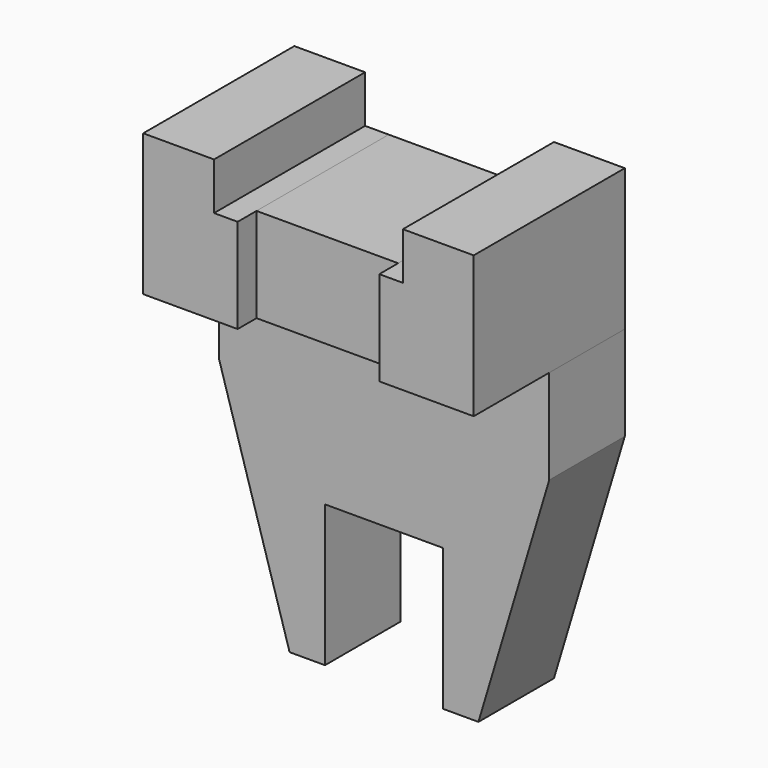
from build123d import *

# Parameters (mm, degrees)
F0_W     = 3.81
F0_H     = 2.54
F1_DEPTH = 10.16
F2_DEPTH = 8.89
F3_DEPTH = 5.08


with BuildPart() as f1:
    # F0 (on Front) → F1 (new body)
    with BuildSketch(Plane.XZ):
        with Locations((-25.8821314108, 11.8955207688)):
            Rectangle(F0_W, F0_H)
        Polygon((-27.7871314108, 5.5455207688), (-22.7071314108, 5.5455207688), (-22.7071314108, 10.6255207688), (-23.9771314108, 10.6255207688), (-27.7871314108, 10.6255207688), align=None)
    extrude(amount=F1_DEPTH)


with BuildPart() as f1b:
    # F0 (on Front) → F1, piece 2 (new body)
    with BuildSketch(Plane.XZ):
        with Locations((-11.9121314108, 11.8955207688)):
            Rectangle(F0_W, F0_H)
        Polygon((-10.0071314108, 5.5455207688), (-10.0071314108, 10.6255207688), (-13.8171314108, 10.6255207688), (-15.0871314108, 10.6255207688), (-15.0871314108, 5.5455207688), align=None)
    extrude(amount=F1_DEPTH)


with BuildPart() as f2:
    # F0 (on Front) → F2 (new body)
    with BuildSketch(Plane.XZ):
        Polygon((-18.8971314108, 5.5455207688), (-15.0871314108, 5.5455207688), (-15.0871314108, 10.6255207688), (-18.8971314108, 10.6255207688), (-22.7071314108, 10.6255207688), (-22.7071314108, 5.5455207688), align=None)
    extrude(amount=F2_DEPTH)


with BuildPart() as f3:
    # F0 (on Front) → F3 (new body)
    with BuildSketch(Plane.XZ):
        Polygon((-10.0071314108, 0.4655207688), (-10.0071314108, 5.5455207688), (-15.0871314108, 5.5455207688), (-18.8971314108, 5.5455207688), (-22.7071314108, 5.5455207688), (-27.7871314108, 5.5455207688), (-27.7871314108, 0.4655207688), (-23.9771314108, -12.2344792312), (-22.0721314108, -12.2344792312), (-22.0721314108, -4.6144792312), (-18.8971314108, -4.6144792312), (-15.7221314108, -4.6144792312), (-15.7221314108, -12.2344792312), (-13.8171314108, -12.2344792312), align=None)
    extrude(amount=F3_DEPTH)


solid = Compound([f1.part, f1b.part, f2.part, f3.part])
